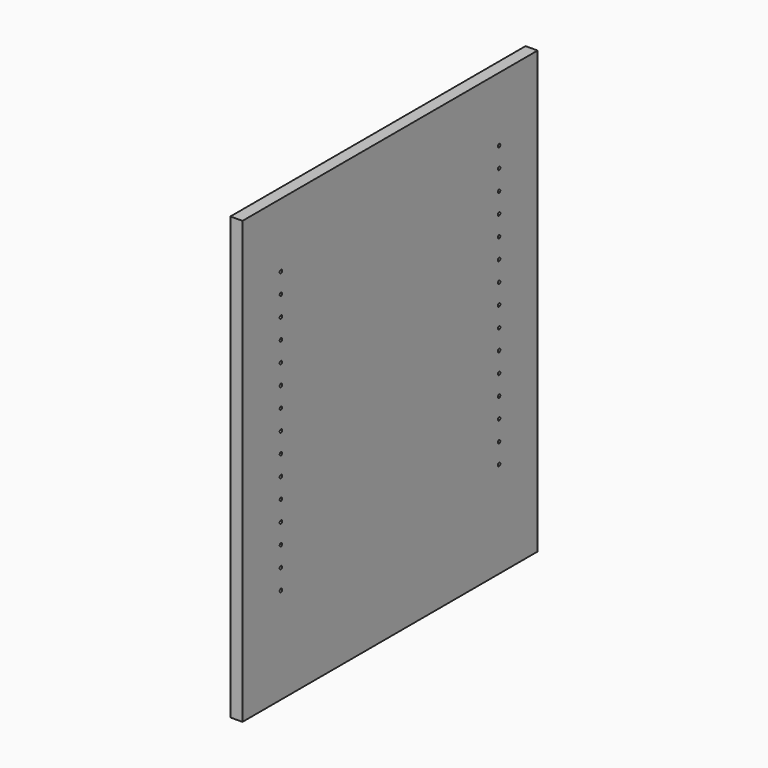
from build123d import *

# Parameters (mm, degrees)
F0_W     = 584.2
F0_H     = 698.5
F1_DEPTH = 19.05
F3_D     = 5.0038
F3_DEPTH = 14.224
F3_TIP   = 1.5032931827


with BuildPart() as f1:
    # F0 (on Right) → F1 (new body)
    with BuildSketch(Plane.YZ):
        Rectangle(F0_W, F0_H)
    extrude(amount=F1_DEPTH)

    # F3
    with Locations(Plane.YZ.offset(19.05)):
        with Locations((-215.9, 247.65), (-215.9, 215.9), (-215.9, 184.15), (-215.9, 152.4), (-215.9, 120.65), (-215.9, 88.9), (-215.9, 57.15), (-215.9, 25.4), (-215.9, -6.35), (-215.9, -38.1), (-215.9, -69.85), (-215.9, -101.6), (-215.9, -133.35), (-215.9, -165.1), (-215.9, -196.85), (215.9, -196.85), (215.9, -165.1), (215.9, -133.35), (215.9, -101.6), (215.9, -69.85), (215.9, -38.1), (215.9, -6.35), (215.9, 25.4), (215.9, 57.15), (215.9, 88.9), (215.9, 120.65), (215.9, 152.4), (215.9, 184.15), (215.9, 215.9), (215.9, 247.65)):
            Hole(F3_D / 2, depth=F3_DEPTH)
            with Locations((0, 0, -(F3_DEPTH + F3_TIP / 2))):  # 118° drill point
                Cone(0, F3_D / 2, F3_TIP, mode=Mode.SUBTRACT)


solid = f1.part
